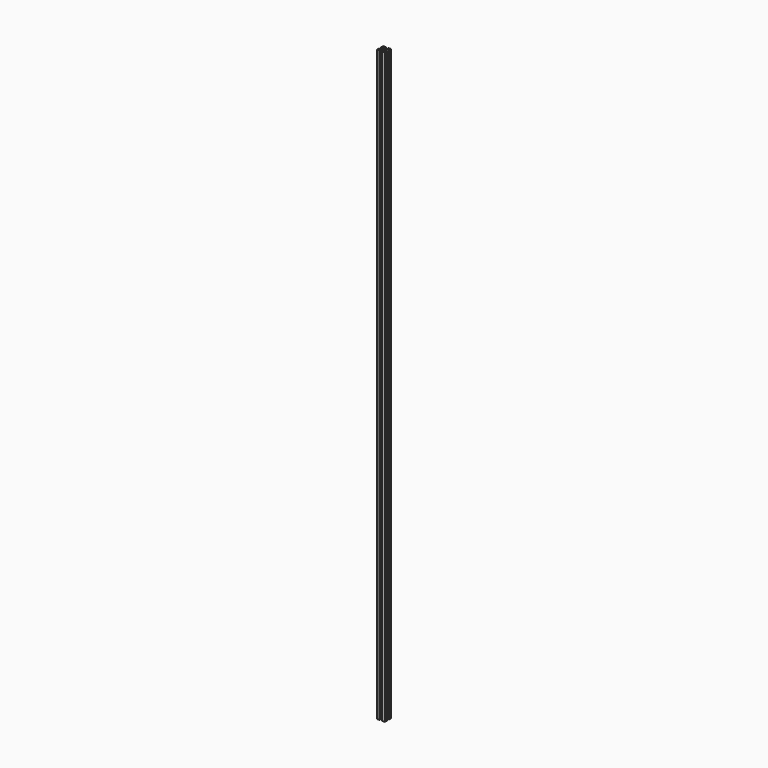
from build123d import *

# Parameters (mm, degrees)
F0_R     = 2.5
F1_DEPTH = 1500


with BuildPart() as f1:
    # F0 (on Top) → F1 (new body)
    with BuildSketch(Plane.XY):
        Polygon((6.5, 7.616114), (1.4, 2.389949), (1.4, 6.8), (0, 6.8), (0, 0), (6.8, 0), (6.8, 1.4), (2.389949, 1.4), (7.489949, 6.5), (12.510051, 6.5), (17.610051, 1.4), (13.2, 1.4), (13.2, 0), (20, 0), (20, 6.8), (18.6, 6.8), (18.6, 2.389949), (13.5, 7.489949), (13.5, 12.510051), (18.6, 17.610051), (18.6, 13.2), (20, 13.2), (20, 20), (13.2, 20), (13.2, 18.6), (17.610051, 18.6), (12.510051, 13.5), (7.489949, 13.5), (2.389949, 18.6), (6.8, 18.6), (6.8, 20), (0, 20), (0, 13.2), (1.4, 13.2), (1.4, 17.610051), (6.5, 12.510051), align=None)
        with Locations((10, 10)):
            Circle(F0_R, mode=Mode.SUBTRACT)
    extrude(amount=F1_DEPTH)


solid = f1.part
